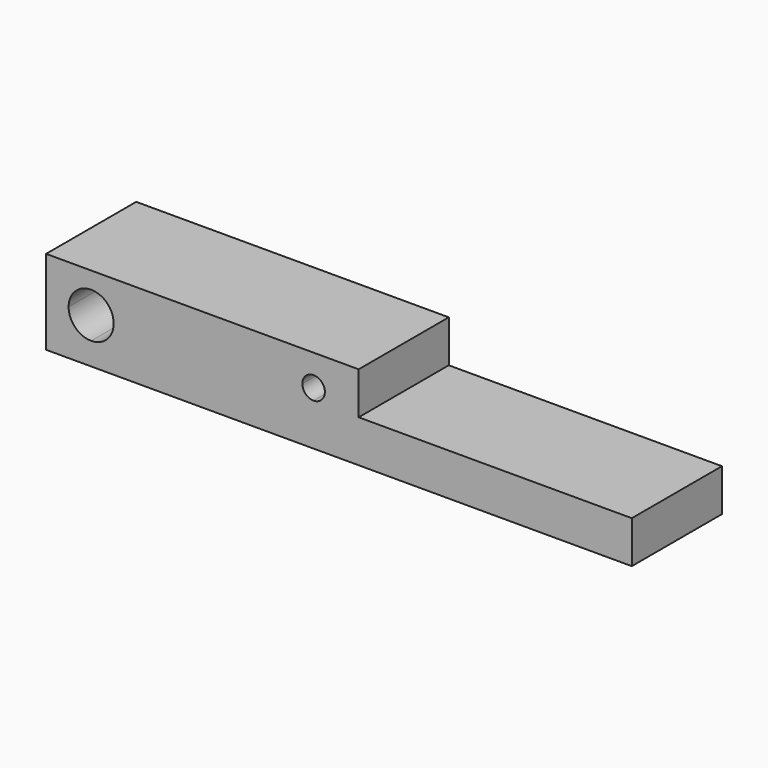
from build123d import *

# Parameters (mm, degrees)
F1_DEPTH = 10
F3_DEPTH = 15


with BuildPart() as f1:
    # F0 (on Front) → F1 (new body, symmetric)
    with BuildSketch(Plane.XZ):
        Polygon((-17.698619, 11.235474), (-17.698619, -3.764526), (86.301381, -3.764526), (86.301381, 3.735474), (37.801381, 3.735474), (37.801381, 11.235474), align=None)
    extrude(amount=F1_DEPTH, both=True)

    # F2 (on Front) → F3 (cut, symmetric)
    with BuildSketch(Plane.XZ):
        with BuildLine():
            ThreePointArc((-5.698619, 4.235474), (-6.870192, 7.063901), (-9.698619, 8.235474))
            Line((-9.698619, 8.235474), (-9.698619, 4.235474))
            Line((-9.698619, 4.235474), (-5.698619, 4.235474))
        make_face()
        with BuildLine():
            Line((-9.698619, 4.235474), (-9.698619, 8.235474))
            ThreePointArc((-9.698619, 8.235474), (-12.527046, 7.063901), (-13.698619, 4.235474))
            Line((-13.698619, 4.235474), (-9.698619, 4.235474))
        make_face()
        with BuildLine():
            Line((-5.698619, 4.235474), (-9.698619, 4.235474))
            Line((-9.698619, 4.235474), (-9.698619, 0.235474))
            ThreePointArc((-9.698619, 0.235474), (-6.870192, 1.407047), (-5.698619, 4.235474))
        make_face()
        with BuildLine():
            Line((-9.698619, 0.235474), (-9.698619, 4.235474))
            Line((-9.698619, 4.235474), (-13.698619, 4.235474))
            ThreePointArc((-13.698619, 4.235474), (-12.527046, 1.407047), (-9.698619, 0.235474))
        make_face()
        with BuildLine():
            ThreePointArc((31.801381, 5.735474), (31.215594, 7.149688), (29.801381, 7.735474))
            Line((29.801381, 7.735474), (29.801381, 5.735474))
            Line((29.801381, 5.735474), (31.801381, 5.735474))
        make_face()
        with BuildLine():
            Line((29.801381, 5.735474), (29.801381, 7.735474))
            ThreePointArc((29.801381, 7.735474), (28.387167, 7.149688), (27.801381, 5.735474))
            Line((27.801381, 5.735474), (29.801381, 5.735474))
        make_face()
        with BuildLine():
            Line((31.801381, 5.735474), (29.801381, 5.735474))
            Line((29.801381, 5.735474), (29.801381, 3.735474))
            ThreePointArc((29.801381, 3.735474), (31.215594, 4.321261), (31.801381, 5.735474))
        make_face()
        with BuildLine():
            Line((29.801381, 3.735474), (29.801381, 5.735474))
            Line((29.801381, 5.735474), (27.801381, 5.735474))
            ThreePointArc((27.801381, 5.735474), (28.387167, 4.321261), (29.801381, 3.735474))
        make_face()
    extrude(amount=F3_DEPTH, both=True, mode=Mode.SUBTRACT)


solid = f1.part
